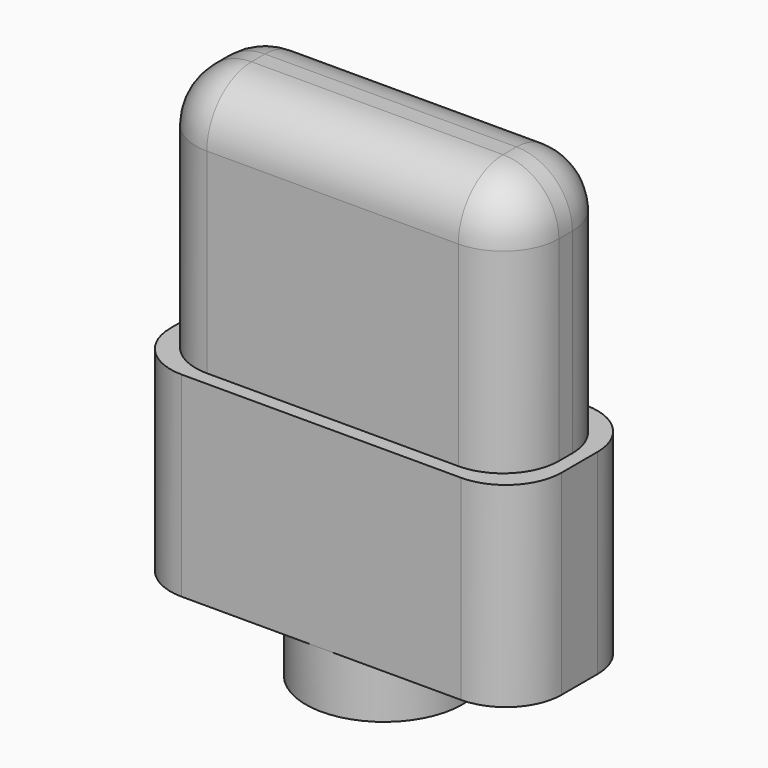
from build123d import *

# Parameters (mm, degrees)
BOX_W          = 6.5
BOX_H          = 2.3
BOX_DEPTH      = 6
FILLET_R       = 1
BOX001_W       = 7
BOX001_H       = 2.8
BOX001_DEPTH   = 3.5
FILLET001_R    = 1
CYLINDER_R     = 1.4
CYLINDER_DEPTH = 1


with BuildPart() as fillet_body:
    # Box → Box (new body)
    with BuildSketch(Plane.XY):
        with Locations((3.25, 1.15)):
            Rectangle(BOX_W, BOX_H)
    extrude(amount=BOX_DEPTH)

    # Fillet
    fillet_edges = [fillet_body.edges().sort_by_distance(p)[0] for p in [
        (0, 0, 3),
        (0, 1.15, 6),
        (0, 2.3, 3),
        (6.5, 0, 3),
        (6.5, 1.15, 6),
        (6.5, 2.3, 3),
        (3.25, 0, 6),
        (3.25, 2.3, 6),
    ]]
    fillet(fillet_edges, radius=FILLET_R)


with BuildPart() as fillet001:
    # Box001 → Box001 (new body)
    with BuildSketch(Plane(origin=(-0.25, -0.25, -2), x_dir=(1, 0, 0), z_dir=(0, 0, 1))):
        with Locations((3.5, 1.4)):
            Rectangle(BOX001_W, BOX001_H)
    extrude(amount=BOX001_DEPTH)

    # Fillet001
    fillet001_edges = [fillet001.edges().sort_by_distance(p)[0] for p in [
        (-0.25, -0.25, -0.25),
        (-0.25, 2.55, -0.25),
        (6.75, -0.25, -0.25),
        (6.75, 2.55, -0.25),
    ]]
    fillet(fillet001_edges, radius=FILLET001_R)


with BuildPart() as cylinder:
    # Cylinder → Cylinder (new body)
    with BuildSketch(Plane(origin=(3.25, 1.15, -3), x_dir=(1, 0, 0), z_dir=(0, 0, 1))):
        Circle(CYLINDER_R)
    extrude(amount=CYLINDER_DEPTH)


solid = Compound([fillet_body.part, fillet001.part, cylinder.part])
